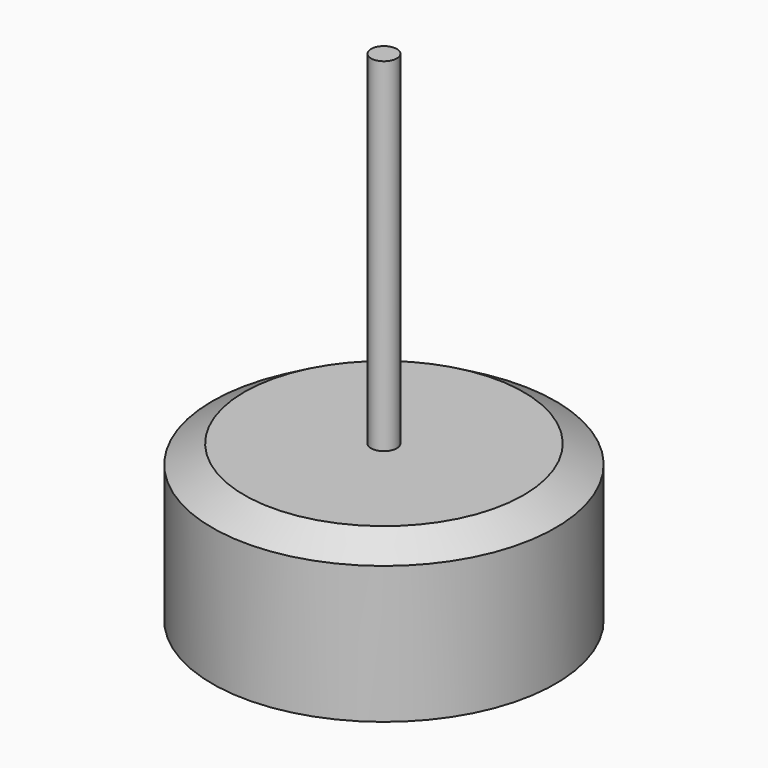
from build123d import *

# Parameters (mm, degrees)
F0_W   = 0.75
F0_H   = 20
F0_H_2 = 3
F0_H_3 = 1.0746234533


with BuildPart() as f1:
    # F0 (on Front) → F1 (revolve)
    with BuildSketch(Plane.XZ):
        with Locations((-20.9263077103, 19.0746234533)):
            Rectangle(F0_W, F0_H)
        Polygon((-21.3013077103, 8), (-30.5513077103, 8), (-30.5513077103, 0), (-21.3013077103, 0), (-21.3013077103, 5), align=None)
        Polygon((-28.6900052902, 9.0746234533), (-30.5513077103, 8), (-21.3013077103, 8), (-21.3013077103, 9.0746234533), align=None)
        with Locations((-20.9263077103, 6.5)):
            Rectangle(F0_W, F0_H_2)
        with Locations((-20.9263077103, 8.5373117267)):
            Rectangle(F0_W, F0_H_3)
    revolve(axis=Axis((-20.5513077103, 0, 19.0746234533), (0, 0, 1)))


solid = f1.part
